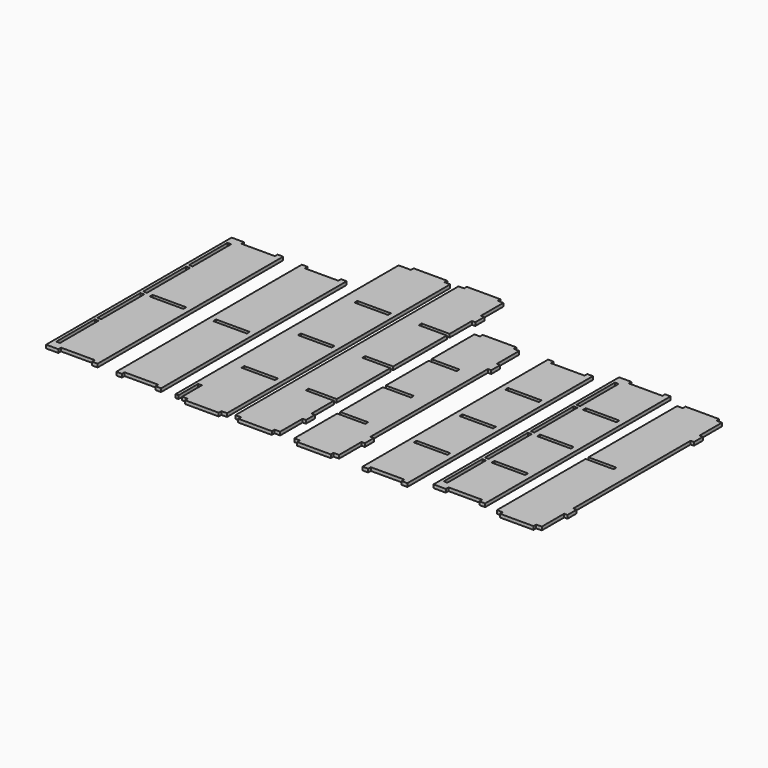
from build123d import *

# Parameters (mm, degrees)
F1_DEPTH  = 3
F3_DEPTH  = 3
F4_W      = 30
F4_H      = 3.2
F5_DEPTH  = 3
F6_W      = 3.3
F6_H      = 43
F6_H_2    = 48
F6_W_2    = 30
F6_H_3    = 3.2
F7_DEPTH  = 3
F8_W      = 30
F8_H      = 3.2
F9_DEPTH  = 3
F11_DEPTH = 3
F12_W     = 30
F12_H     = 3.2
F13_DEPTH = 3
F14_W     = 3.3
F14_H     = 43
F14_H_2   = 48
F14_W_2   = 30
F14_H_3   = 3.2
F15_DEPTH = 3


with BuildPart() as f1:
    # F0 (on Top) → F1 (new body)
    with BuildSketch(Plane.XY):
        Polygon((-43.199334, 125.854234), (-73.199334, 125.854234), (-73.199334, 122.854234), (-78.199334, 122.854234), (-78.199334, -126.145766), (-73.199334, -126.145766), (-73.199334, -129.145766), (-43.199334, -129.145766), (-43.199334, -126.145766), (-38.199334, -126.145766), (-38.199334, -101.145766), (-35.199334, -101.145766), (-35.199334, -91.145766), (-38.199334, -91.145766), (-38.199334, -66.245766), (-63.199334, -66.245766), (-63.199334, -63.045766), (-38.199334, -63.045766), (-38.199334, -3.245766), (-63.199334, -3.245766), (-63.199334, -0.045766), (-38.199334, -0.045766), (-38.199334, 59.754234), (-63.199334, 59.754234), (-63.199334, 62.954234), (-38.199334, 62.954234), (-38.199334, 87.854234), (-35.199334, 87.854234), (-35.199334, 97.854234), (-38.199334, 97.854234), (-38.199334, 122.854234), (-43.199334, 122.854234), align=None)
    extrude(amount=F1_DEPTH)


with BuildPart() as f3:
    # F2 (on Top) → F3 (new body)
    with BuildSketch(Plane.XY):
        Polygon((10.773217, 76.15512), (-19.226783, 76.15512), (-19.226783, 73.15512), (-24.226783, 73.15512), (-24.226783, 25.25512), (0.773217, 25.25512), (0.773217, 22.05512), (-24.226783, 22.05512), (-24.226783, -25.74488), (0.773217, -25.74488), (0.773217, -28.94488), (-24.226783, -28.94488), (-24.226783, -76.74488), (0.773217, -76.74488), (0.773217, -79.94488), (-24.226783, -79.94488), (-24.226783, -127.84488), (-19.226783, -127.84488), (-19.226783, -130.84488), (10.773217, -130.84488), (10.773217, -127.84488), (15.773217, -127.84488), (15.773217, -102.84488), (18.773217, -102.84488), (18.773217, -92.84488), (15.773217, -92.84488), (15.773217, 38.15512), (18.773217, 38.15512), (18.773217, 48.15512), (15.773217, 48.15512), (15.773217, 73.15512), (10.773217, 73.15512), align=None)
    extrude(amount=F3_DEPTH)


with BuildPart() as f5:
    # F4 (on Top) → F5 (new body)
    with BuildSketch(Plane.XY):
        Polygon((44.629328, 75.492547), (39.629328, 75.492547), (39.629328, -131.507453), (44.629328, -131.507453), (44.629328, -128.507453), (74.629328, -128.507453), (74.629328, -131.507453), (79.629328, -131.507453), (79.629328, 75.492547), (74.629328, 75.492547), (74.629328, 72.492547), (44.629328, 72.492547), align=None)
        with Locations((59.629328, -79.007453)):
            Rectangle(F4_W, F4_H, mode=Mode.SUBTRACT)
        with Locations((59.629328, -28.007453)):
            Rectangle(F4_W, F4_H, mode=Mode.SUBTRACT)
        with Locations((59.629328, 22.992547)):
            Rectangle(F4_W, F4_H, mode=Mode.SUBTRACT)
    extrude(amount=F5_DEPTH)


with BuildPart() as f7:
    # F6 (on Top) → F7 (new body)
    with BuildSketch(Plane.XY):
        Polygon((105.978865, 85.547645), (94.978865, 85.547645), (94.978865, -121.452355), (105.978865, -121.452355), (105.978865, -118.452355), (135.978865, -118.452355), (135.978865, -121.452355), (140.978865, -121.452355), (140.978865, 85.547645), (135.978865, 85.547645), (135.978865, 82.547645), (105.978865, 82.547645), align=None)
        with Locations((99.328865, -91.952355)):
            Rectangle(F6_W, F6_H, mode=Mode.SUBTRACT)
        with Locations((99.328865, -43.452355)):
            Rectangle(F6_W, F6_H_2, mode=Mode.SUBTRACT)
        with Locations((120.978865, -68.952355)):
            Rectangle(F6_W_2, F6_H_3, mode=Mode.SUBTRACT)
        with Locations((99.328865, 7.547645)):
            Rectangle(F6_W, F6_H_2, mode=Mode.SUBTRACT)
        with Locations((99.328865, 56.047645)):
            Rectangle(F6_W, F6_H, mode=Mode.SUBTRACT)
        with Locations((120.978865, -17.952355)):
            Rectangle(F6_W_2, F6_H_3, mode=Mode.SUBTRACT)
        with Locations((120.978865, 33.047645)):
            Rectangle(F6_W_2, F6_H_3, mode=Mode.SUBTRACT)
    extrude(amount=F7_DEPTH)


with BuildPart() as f9:
    # F8 (on Top) → F9 (new body)
    with BuildSketch(Plane.XY):
        Polygon((-89.553208, 121.494728), (-89.553208, 124.494728), (-119.553208, 124.494728), (-119.553208, 121.494728), (-130.553208, 121.494728), (-130.553208, -127.505272), (-127.853208, -127.505272), (-127.853208, -105.505272), (-124.553208, -105.505272), (-124.553208, -127.505272), (-119.553208, -127.505272), (-119.553208, -130.505272), (-89.553208, -130.505272), (-89.553208, -127.505272), (-84.553208, -127.505272), (-84.553208, 121.494728), align=None)
        with Locations((-104.553208, -66.005272)):
            Rectangle(F8_W, F8_H, mode=Mode.SUBTRACT)
        with Locations((-104.553208, -3.005272)):
            Rectangle(F8_W, F8_H, mode=Mode.SUBTRACT)
        with Locations((-104.553208, 59.994728)):
            Rectangle(F8_W, F8_H, mode=Mode.SUBTRACT)
    extrude(amount=F9_DEPTH)


with BuildPart() as f11:
    # F10 (on Top) → F11 (new body)
    with BuildSketch(Plane.XY):
        Polygon((188.727571, 79.855417), (158.727571, 79.855417), (158.727571, 76.855417), (153.727571, 76.855417), (153.727571, -22.044583), (178.727571, -22.044583), (178.727571, -25.244583), (153.727571, -25.244583), (153.727571, -124.144583), (158.727571, -124.144583), (158.727571, -127.144583), (188.727571, -127.144583), (188.727571, -124.144583), (193.727571, -124.144583), (193.727571, -99.144583), (196.727571, -99.144583), (196.727571, -89.144583), (193.727571, -89.144583), (193.727571, 41.855417), (196.727571, 41.855417), (196.727571, 51.855417), (193.727571, 51.855417), (193.727571, 76.855417), (188.727571, 76.855417), align=None)
    extrude(amount=F11_DEPTH)


with BuildPart() as f13:
    # F12 (on Top) → F13 (new body)
    with BuildSketch(Plane.XY):
        Polygon((-178.889595, 80.138018), (-183.889595, 80.138018), (-183.889595, -126.861982), (-178.889595, -126.861982), (-178.889595, -123.861982), (-148.889595, -123.861982), (-148.889595, -126.861982), (-143.889595, -126.861982), (-143.889595, 80.138018), (-148.889595, 80.138018), (-148.889595, 77.138018), (-178.889595, 77.138018), align=None)
        with Locations((-163.889595, -23.361982)):
            Rectangle(F12_W, F12_H, mode=Mode.SUBTRACT)
    extrude(amount=F13_DEPTH)


with BuildPart() as f15:
    # F14 (on Top) → F15 (new body)
    with BuildSketch(Plane.XY):
        Polygon((-236.651274, 81.508335), (-247.651274, 81.508335), (-247.651274, -125.491665), (-236.651274, -125.491665), (-236.651274, -122.491665), (-206.651274, -122.491665), (-206.651274, -125.491665), (-201.651274, -125.491665), (-201.651274, 81.508335), (-206.651274, 81.508335), (-206.651274, 78.508335), (-236.651274, 78.508335), align=None)
        with Locations((-243.301274, -95.991665)):
            Rectangle(F14_W, F14_H, mode=Mode.SUBTRACT)
        with Locations((-243.301274, -47.491665)):
            Rectangle(F14_W, F14_H_2, mode=Mode.SUBTRACT)
        with Locations((-243.301274, 3.508335)):
            Rectangle(F14_W, F14_H_2, mode=Mode.SUBTRACT)
        with Locations((-243.301274, 52.008335)):
            Rectangle(F14_W, F14_H, mode=Mode.SUBTRACT)
        with Locations((-221.651274, -21.991665)):
            Rectangle(F14_W_2, F14_H_3, mode=Mode.SUBTRACT)
    extrude(amount=F15_DEPTH)


solid = Compound([f1.part, f3.part, f5.part, f7.part, f9.part, f11.part, f13.part, f15.part])
